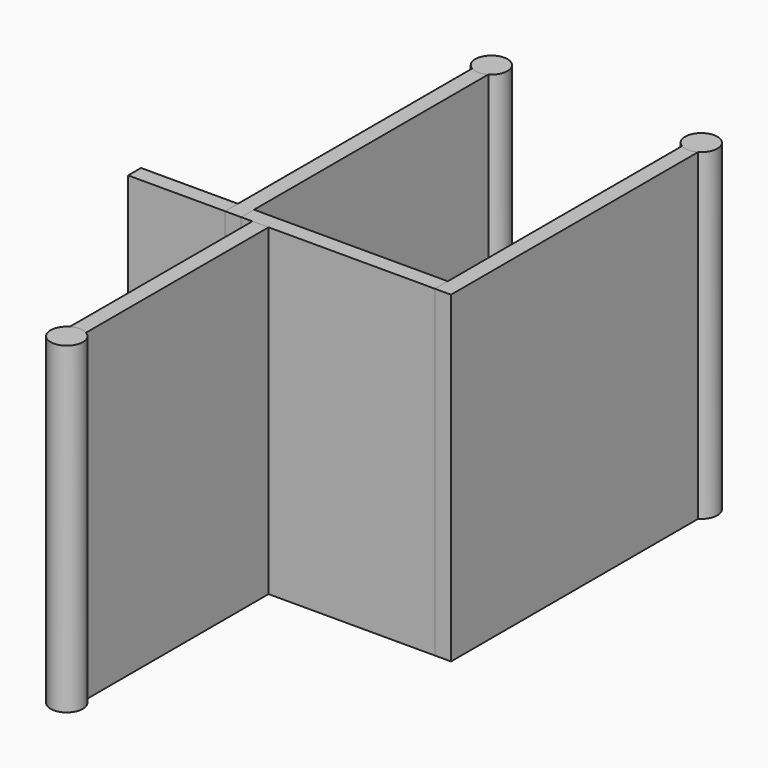
from build123d import *

# Parameters (mm, degrees)
BOX_W             = 19.5
BOX_H             = 1
BOX_DEPTH         = 20
BOX001_W          = 1
BOX001_H          = 20
BOX001_DEPTH      = 20
BOX002_W          = 1
BOX002_H          = 20
BOX002_DEPTH      = 20
CYLINDER_R        = 1
CYLINDER_DEPTH    = 20
CYLINDER001_R     = 1
CYLINDER001_DEPTH = 20
BOX003_W          = 1
BOX003_H          = 15
BOX003_DEPTH      = 20
CYLINDER002_R     = 1
CYLINDER002_DEPTH = 20


with BuildPart() as cube:
    # Box → Box (new body)
    with BuildSketch(Plane.XY):
        with Locations((9.75, 0.5)):
            Rectangle(BOX_W, BOX_H)
    extrude(amount=BOX_DEPTH)


with BuildPart() as cube001:
    # Box001 → Box001 (new body)
    with BuildSketch(Plane(origin=(6, 0, 0), x_dir=(1, 0, 0), z_dir=(0, 0, 1))):
        with Locations((0.5, 10)):
            Rectangle(BOX001_W, BOX001_H)
    extrude(amount=BOX001_DEPTH)


with BuildPart() as cube002:
    # Box002 → Box002 (new body)
    with BuildSketch(Plane(origin=(19, 0, 0), x_dir=(1, 0, 0), z_dir=(0, 0, 1))):
        with Locations((0.5, 10)):
            Rectangle(BOX002_W, BOX002_H)
    extrude(amount=BOX002_DEPTH)


with BuildPart() as cylinder:
    # Cylinder → Cylinder (new body)
    with BuildSketch(Plane(origin=(6.5, 20, 0), x_dir=(1, 0, 0), z_dir=(0, 0, 1))):
        Circle(CYLINDER_R)
    extrude(amount=CYLINDER_DEPTH)


with BuildPart() as cylinder001:
    # Cylinder001 → Cylinder001 (new body)
    with BuildSketch(Plane(origin=(19.5, 20, 0), x_dir=(1, 0, 0), z_dir=(0, 0, 1))):
        Circle(CYLINDER001_R)
    extrude(amount=CYLINDER001_DEPTH)


with BuildPart() as cube003:
    # Box003 → Box003 (new body)
    with BuildSketch(Plane(origin=(7.7, -15, 0), x_dir=(1, 0, 0), z_dir=(0, 0, 1))):
        with Locations((0.5, 7.5)):
            Rectangle(BOX003_W, BOX003_H)
    extrude(amount=BOX003_DEPTH)


with BuildPart() as cylinder002:
    # Cylinder002 → Cylinder002 (new body)
    with BuildSketch(Plane(origin=(8.2, -15, 0), x_dir=(1, 0, 0), z_dir=(0, 0, 1))):
        Circle(CYLINDER002_R)
    extrude(amount=CYLINDER002_DEPTH)


solid = Compound([cube.part, cube001.part, cube002.part, cylinder.part, cylinder001.part, cube003.part, cylinder002.part])
